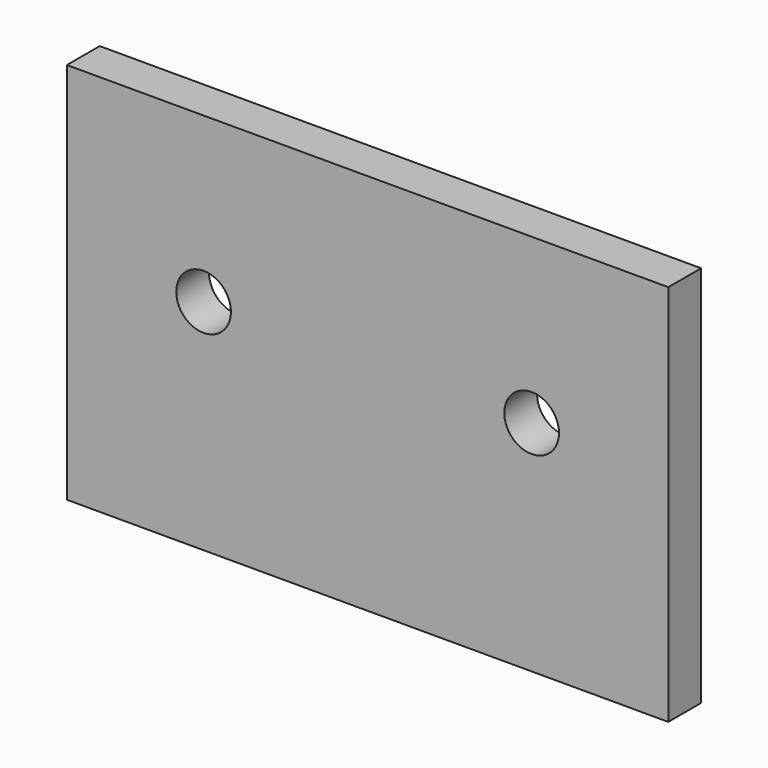
from build123d import *

# Parameters (mm, degrees)
F0_W     = 69.85
F0_H     = 44.45
F1_DEPTH = 4.7625
F2_R     = 3.175
F3_DEPTH = 25.4


with BuildPart() as f1:
    # F0 (on Front) → F1 (new body)
    with BuildSketch(Plane.XZ):
        Rectangle(F0_W, F0_H)
    extrude(amount=F1_DEPTH)

    # F2 (on face) → F3 (cut)
    with BuildSketch(Plane.XZ.offset(4.7625)):
        with BuildLine():
            ThreePointArc((-15.875, 3.175), (-19.05, 6.35), (-22.225, 3.175))
            ThreePointArc((-22.225, 3.175), (-19.05, 0), (-15.875, 3.175))
        make_face()
        with Locations((19.05, 3.175)):
            Circle(F2_R)
    extrude(amount=-F3_DEPTH, mode=Mode.SUBTRACT)


solid = f1.part
